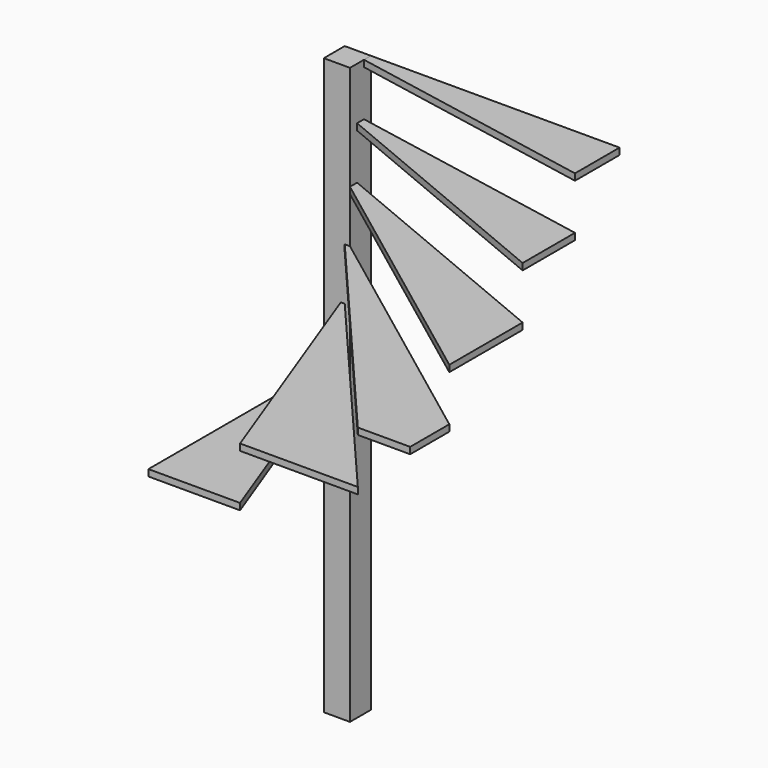
from build123d import *

# Parameters (mm, degrees)
F0_W      = 100
F0_H      = 100
F1_DEPTH  = 2200
F3_DEPTH  = 25
F19_DEPTH = 25


with BuildPart() as f1:
    # F0 (on Top) → F1 (new body)
    with BuildSketch(Plane.XY):
        Rectangle(F0_W, F0_H)
    extrude(amount=-F1_DEPTH)

    # F14 (on offset) + F15 (on offset) + F16 (on offset) + F17 (on offset) + F18 (on offset) → F19 (join)
    with BuildSketch(Plane.XY.offset(-200)):
        Polygon((1000, -413.045367), (1000, -163.045367), (50, 17), (50, -16), align=None)
    with BuildSketch(Plane.XY.offset(-400)):
        Polygon((1000, -413.045367), (50, -16), (50, -50), (1000, -763.045367), align=None)
    with BuildSketch(Plane.XY.offset(-600)):
        Polygon((1000, -763.045367), (50, -50), (30, -50), (800, -950), (1000, -950), align=None)
    with BuildSketch(Plane.XY.offset(-800)):
        Polygon((30, -50), (15, -50), (350, -950), (800, -950), align=None)
    with BuildSketch(Plane.XY.offset(-1000)):
        Polygon((15, -50), (0, -50), (0, -950), (350, -950), align=None)
    extrude(amount=-F19_DEPTH)


with BuildPart() as f3:
    # F2 (on face) → F3 (new body)
    with BuildSketch(Plane.XY):
        Polygon((1000, 50), (50, 50), (50, 17), (1000, -163.045367), align=None)
    extrude(amount=-F3_DEPTH)


solid = Compound([f1.part, f3.part])
